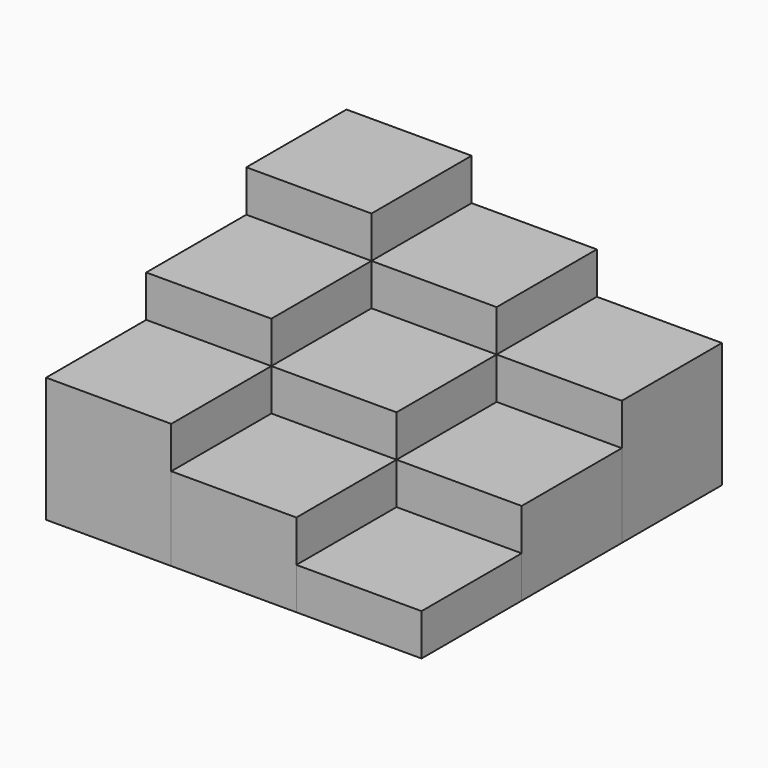
from build123d import *

# Parameters (mm, degrees)
F0_W     = 30
F0_H     = 30
F1_DEPTH = 10
F2_DEPTH = 20
F3_DEPTH = 30
F4_DEPTH = 40
F5_DEPTH = 50


with BuildPart() as f1:
    # F0 (on Top) → F1 (new body)
    with BuildSketch(Plane.XY):
        with Locations((30, -30)):
            Rectangle(F0_W, F0_H)
    extrude(amount=F1_DEPTH)


with BuildPart() as f2:
    # F0 (on Top) → F2 (new body)
    with BuildSketch(Plane.XY):
        with Locations((0, -30)):
            Rectangle(F0_W, F0_H)
    extrude(amount=F2_DEPTH)


with BuildPart() as f2b:
    # F0 (on Top) → F2, piece 2 (new body)
    with BuildSketch(Plane.XY):
        with Locations((30, 0)):
            Rectangle(F0_W, F0_H)
    extrude(amount=F2_DEPTH)


with BuildPart() as f3:
    # F0 (on Top) → F3 (new body)
    with BuildSketch(Plane.XY):
        with Locations((-30, -30)):
            Rectangle(F0_W, F0_H)
    extrude(amount=F3_DEPTH)


with BuildPart() as f3b:
    # F0 (on Top) → F3, piece 2 (new body)
    with BuildSketch(Plane.XY):
        Rectangle(F0_W, F0_H)
    extrude(amount=F3_DEPTH)


with BuildPart() as f3c:
    # F0 (on Top) → F3, piece 3 (new body)
    with BuildSketch(Plane.XY):
        with Locations((30, 30)):
            Rectangle(F0_W, F0_H)
    extrude(amount=F3_DEPTH)


with BuildPart() as f4:
    # F0 (on Top) → F4 (new body)
    with BuildSketch(Plane.XY):
        with Locations((-30, 0)):
            Rectangle(F0_W, F0_H)
    extrude(amount=F4_DEPTH)


with BuildPart() as f4b:
    # F0 (on Top) → F4, piece 2 (new body)
    with BuildSketch(Plane.XY):
        with Locations((0, 30)):
            Rectangle(F0_W, F0_H)
    extrude(amount=F4_DEPTH)


with BuildPart() as f5:
    # F0 (on Top) → F5 (new body)
    with BuildSketch(Plane.XY):
        with Locations((-30, 30)):
            Rectangle(F0_W, F0_H)
    extrude(amount=F5_DEPTH)


solid = Compound([f1.part, f2.part, f2b.part, f3.part, f3b.part, f3c.part, f4.part, f4b.part, f5.part])
